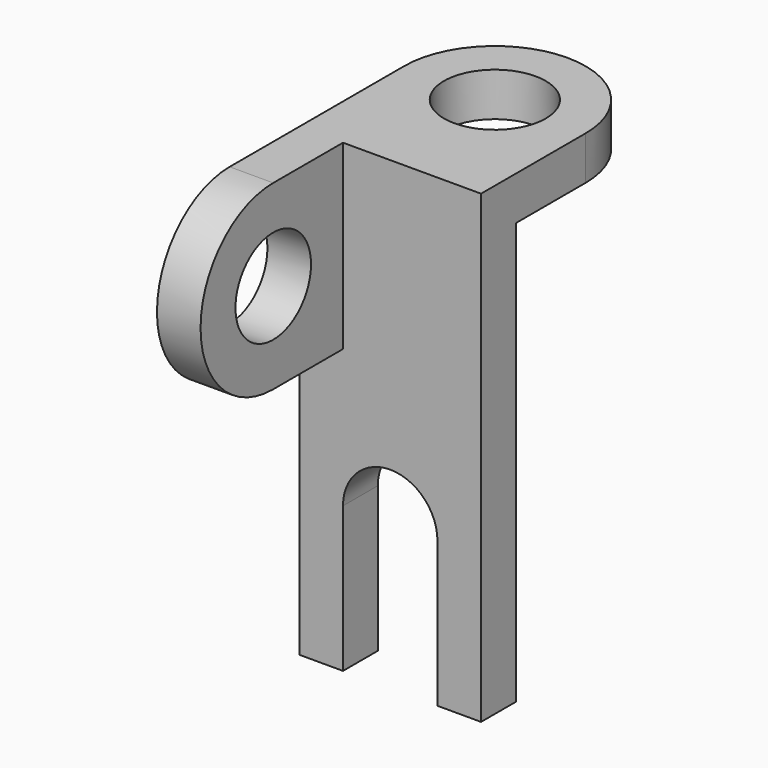
from build123d import *

# Parameters (mm, degrees)
F1_DEPTH = 6
F2_R     = 7
F3_DEPTH = 6
F4_W     = 12
F4_H     = 25
F5_DEPTH = 6
F6_D     = 13


with BuildPart() as f1:
    # F0 (on Front) → F1 (new body)
    with BuildSketch(Plane.XZ):
        with BuildLine():
            Line((6.5, -32), (12.5, -32))
            Line((12.5, -32), (12.5, 32))
            Line((12.5, 32), (-12.5, 32))
            Line((-12.5, 32), (-12.5, -32))
            Line((-12.5, -32), (-6.5, -32))
            Line((-6.5, -32), (-6.5, -12))
            ThreePointArc((-6.5, -12), (0, -5.5), (6.5, -12))
            Line((6.5, -12), (6.5, -32))
        make_face()
    extrude(amount=F1_DEPTH)

    # F2 (on face) → F3 (join)
    with BuildSketch(Plane.XY.offset(32)):
        with BuildLine():
            Line((-12.5, 0), (12.5, 0))
            Line((12.5, 0), (12.5, 12))
            ThreePointArc((12.5, 12), (0, 24.5), (-12.5, 12))
            Line((-12.5, 12), (-12.5, 0))
        make_face()
        with Locations((0, 12)):
            Circle(F2_R, mode=Mode.SUBTRACT)
    extrude(amount=-F3_DEPTH)

    # F4 (on face) → F5 (join)
    with BuildSketch(Plane(origin=(-12.5, 0, 0), x_dir=(0, -1, 0), z_dir=(-1, 0, 0))):
        with Locations((12, 19.5)):
            Rectangle(F4_W, F4_H)
        with BuildLine():
            ThreePointArc((18, 7), (30.5, 19.5), (18, 32))
            Line((18, 32), (18, 7))
        make_face()
    extrude(amount=-F5_DEPTH)

    # F6 (through all)
    with Locations(Plane(origin=(-12.5, 0, 0), x_dir=(0, -1, 0), z_dir=(-1, 0, 0))):
        with Locations((18, 19.5)):
            Hole(F6_D / 2)


solid = f1.part
